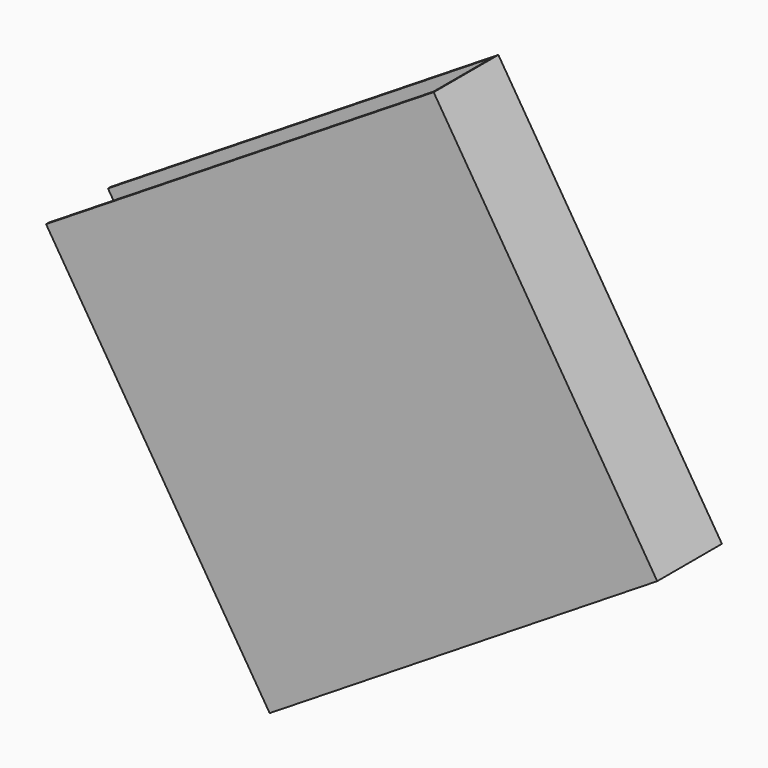
from build123d import *

# Parameters (mm, degrees)
BOX147_W               = 6
BOX147_H               = 6.45
BOX147_DEPTH           = 1.05
BOX146_W               = 6
BOX146_H               = 6.5
BOX146_DEPTH           = 1.15
CUT068_ROLL_ANGLE      = 90
CUT068_PITCH_ANGLE     = -58
CUT068_PLACEMENT_ANGLE = 180


with BuildPart() as small_cu_gnd_electrode058:
    # Box147 → Box147 (new body)
    with BuildSketch(Plane.XY.offset(0.05)):
        with Locations((3, 3.225)):
            Rectangle(BOX147_W, BOX147_H)
    extrude(amount=BOX147_DEPTH)


with BuildPart() as small_cu_electrode_short_axis_gnd006:
    # Box146 → Box146 (new body)
    with BuildSketch(Plane.XY):
        with Locations((3, 3.25)):
            Rectangle(BOX146_W, BOX146_H)
    extrude(amount=BOX146_DEPTH)

    # Cut068: cut Small Cu GND Electrode058
    add(small_cu_gnd_electrode058.part, mode=Mode.SUBTRACT)


with BuildPart() as small_cu_electrode_short_axis_gnd006_1:
    # Cut068 roll: moved
    add(small_cu_electrode_short_axis_gnd006.part.rotate(Axis((0, 0, 0), (1, 0, 0)), CUT068_ROLL_ANGLE))


with BuildPart() as small_cu_electrode_short_axis_gnd006_2:
    # Cut068 pitch: moved
    add(small_cu_electrode_short_axis_gnd006_1.part.rotate(Axis((0, 0, 0), (0, 1, 0)), CUT068_PITCH_ANGLE))


with BuildPart() as small_cu_electrode_short_axis_gnd006_3:
    # Cut068 placement: moved
    add(small_cu_electrode_short_axis_gnd006_2.part.moved(Location((-6.250047, 1.59, 31.868858))).rotate(Axis((-6.250047, 1.59, 31.868858), (0, 0, 1)), CUT068_PLACEMENT_ANGLE))


solid = small_cu_electrode_short_axis_gnd006_3.part
